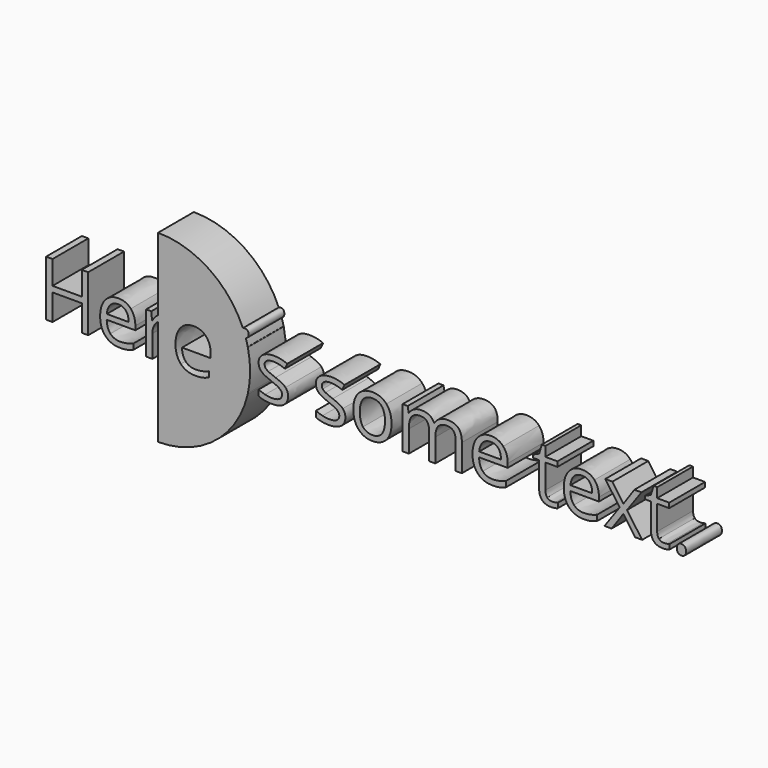
from build123d import *

# Parameters (mm, degrees)
F1_DEPTH = 25.4


with BuildPart() as f1:
    # F0 (on Front) → F1 (new body)
    with BuildSketch(Plane.XZ):
        with BuildLine():
            ThreePointArc((48.132917528, 20.2606229581), (28.8893966768, 43.5048658434), (0, 52.2232763469))
            Line((0, 52.2232763469), (0, 10.99152594))
            add(Edge.make_bspline(
                [(0, 10.99152594), (1.8226162726, 12.1922736354), (3.9958641036, 12.1922736354)],
                knots=[0.0197840857, 0.0197840857, 0.0197840857, 1, 1, 1], degree=2))
            add(Edge.make_bspline(
                [(3.9958641036, 12.1922736354), (5.5657441913, 12.1922736354), (6.8120086469, 11.9306269541)],
                knots=[0, 0, 0, 1, 1, 1], degree=2))
            Line((6.8120086469, 11.9306269541), (6.3162570403, 8.6187308041))
            add(Edge.make_bspline(
                [(6.3162570403, 8.6187308041), (4.8565439762, 8.9423464362), (3.7342174223, 8.9423464362)],
                knots=[0, 0, 0, 1, 1, 1], degree=2))
            add(Edge.make_bspline(
                [(3.7342174223, 8.9423464362), (1.645623263, 8.9423464362), (0, 7.7067871181)],
                knots=[0, 0, 0, 0.7291705076, 0.7291705076, 0.7291705076], degree=2))
            Line((0, 7.7067871181), (0, -52.2232763469))
            ThreePointArc((0, -52.2232763469), (32.4790347036, -40.8947783602), (50.8670852718, -11.8241375312))
            Line((50.8670852718, -11.8241375312), (47.4016714413, -11.8241375312))
            Line((47.4016714413, -11.8241375312), (47.4016714413, 11.7584909795))
            Line((47.4016714413, 11.7584909795), (50.882300285, 11.7584909795))
            ThreePointArc((50.882300285, 11.7584909795), (50.3659143724, 13.8038133079), (49.7673480518, 15.8266124075))
            add(Edge.make_bspline(
                [(49.7673480518, 15.8266124075), (49.5035205982, 15.7589310277), (49.2125418934, 15.7589310277)],
                knots=[0.6619199379, 0.6619199379, 0.6619199379, 1, 1, 1], degree=2))
            add(Edge.make_bspline(
                [(49.2125418934, 15.7589310277), (48.3036639479, 15.7589310277), (47.701188037, 16.35107878)],
                knots=[0, 0, 0, 1, 1, 1], degree=2))
            add(Edge.make_bspline(
                [(47.701188037, 16.35107878), (47.0987121262, 16.9432265324), (47.0987121262, 18.1481783541)],
                knots=[0, 0, 0, 1, 1, 1], degree=2))
            add(Edge.make_bspline(
                [(47.0987121262, 18.1481783541), (47.0987121262, 19.3737864928), (47.701188037, 19.9452779282)],
                knots=[0, 0, 0, 1, 1, 1], degree=2))
            add(Edge.make_bspline(
                [(47.701188037, 19.9452779282), (47.9003168312, 20.134165813), (48.132917528, 20.2606229581)],
                knots=[0, 0, 0, 0.3305174375, 0.3305174375, 0.3305174375], degree=2))
        make_face()
        with BuildLine():
            add(Edge.make_bspline(
                [(25.2649851166, -11.89987736), (23.5780525662, -12.257920187), (21.1888052397, -12.257920187)],
                knots=[0, 0, 0, 1, 1, 1], degree=2))
            add(Edge.make_bspline(
                [(21.1888052397, -12.257920187), (15.962757053, -12.257920187), (12.9366066207, -9.0699619387)],
                knots=[0, 0, 0, 1, 1, 1], degree=2))
            add(Edge.make_bspline(
                [(12.9366066207, -9.0699619387), (9.9104561885, -5.8820036904), (9.9104561885, -0.2290582868)],
                knots=[0, 0, 0, 1, 1, 1], degree=2))
            add(Edge.make_bspline(
                [(9.9104561885, -0.2290582868), (9.9104561885, 5.4789706287), (12.7197152928, 8.835622132)],
                knots=[0, 0, 0, 1, 1, 1], degree=2))
            add(Edge.make_bspline(
                [(12.7197152928, 8.835622132), (15.5289743972, 12.1922736354), (20.2661564163, 12.1922736354)],
                knots=[0, 0, 0, 1, 1, 1], degree=2))
            add(Edge.make_bspline(
                [(20.2661564163, 12.1922736354), (24.6934936812, 12.1922736354), (27.2755332992, 9.2762902268)],
                knots=[0, 0, 0, 1, 1, 1], degree=2))
            add(Edge.make_bspline(
                [(27.2755332992, 9.2762902268), (29.8575729171, 6.3603068183), (29.8575729171, 1.5818121653)],
                knots=[0, 0, 0, 1, 1, 1], degree=2))
            Line((29.8575729171, 1.5818121653), (29.8575729171, -0.6766118206))
            Line((29.8575729171, -0.6766118206), (13.6148223604, -0.6766118206))
            add(Edge.make_bspline(
                [(13.6148223604, -0.6766118206), (13.7249893841, -4.8285315263), (15.7148812497, -6.9802312079)],
                knots=[0, 0, 0, 1, 1, 1], degree=2))
            add(Edge.make_bspline(
                [(15.7148812497, -6.9802312079), (17.7047731152, -9.1319308896), (21.3196285804, -9.1319308896)],
                knots=[0, 0, 0, 1, 1, 1], degree=2))
            add(Edge.make_bspline(
                [(21.3196285804, -9.1319308896), (25.127276337, -9.1319308896), (28.8454133869, -7.5413944849)],
                knots=[0, 0, 0, 1, 1, 1], degree=2))
            Line((28.8454133869, -7.5413944849), (28.8454133869, -10.7293527332))
            add(Edge.make_bspline(
                [(28.8454133869, -10.7293527332), (26.951917667, -11.541834533), (25.2649851166, -11.89987736)],
                knots=[0, 0, 0, 1, 1, 1], degree=2))
        make_face(mode=Mode.SUBTRACT)
        with BuildLine():
            add(Edge.make_bspline(
                [(48.132917528, 20.2606229581), (48.6040639574, 20.5167693637), (49.2125418934, 20.5167693637)],
                knots=[0.3305174375, 0.3305174375, 0.3305174375, 1, 1, 1], degree=2))
            ThreePointArc((48.132917528, 20.2606229581), (49.0003123719, 18.0621144905), (49.7673480518, 15.8266124075))
            add(Edge.make_bspline(
                [(50.6963539939, 16.35107878), (50.2838903483, 15.9591243766), (49.7673480518, 15.8266124075)],
                knots=[0, 0, 0, 0.6619199379, 0.6619199379, 0.6619199379], degree=2))
            add(Edge.make_bspline(
                [(51.3194862217, 18.1481783541), (51.3194862217, 16.9432265324), (50.6963539939, 16.35107878)],
                knots=[0, 0, 0, 1, 1, 1], degree=2))
            add(Edge.make_bspline(
                [(50.6963539939, 19.9349497698), (51.3194862217, 19.3531301759), (51.3194862217, 18.1481783541)],
                knots=[0, 0, 0, 1, 1, 1], degree=2))
            add(Edge.make_bspline(
                [(49.2125418934, 20.5167693637), (50.0732217661, 20.5167693637), (50.6963539939, 19.9349497698)],
                knots=[0, 0, 0, 1, 1, 1], degree=2))
        make_face()
        with BuildLine():
            ThreePointArc((49.7673480518, 15.8266124075), (49.0003123719, 18.0621144905), (48.132917528, 20.2606229581))
            add(Edge.make_bspline(
                [(47.701188037, 19.9452779282), (47.9003168312, 20.134165813), (48.132917528, 20.2606229581)],
                knots=[0, 0, 0, 0.3305174375, 0.3305174375, 0.3305174375], degree=2))
            add(Edge.make_bspline(
                [(47.0987121262, 18.1481783541), (47.0987121262, 19.3737864928), (47.701188037, 19.9452779282)],
                knots=[0, 0, 0, 1, 1, 1], degree=2))
            add(Edge.make_bspline(
                [(47.701188037, 16.35107878), (47.0987121262, 16.9432265324), (47.0987121262, 18.1481783541)],
                knots=[0, 0, 0, 1, 1, 1], degree=2))
            add(Edge.make_bspline(
                [(49.2125418934, 15.7589310277), (48.3036639479, 15.7589310277), (47.701188037, 16.35107878)],
                knots=[0, 0, 0, 1, 1, 1], degree=2))
            add(Edge.make_bspline(
                [(49.7673480518, 15.8266124075), (49.5035205982, 15.7589310277), (49.2125418934, 15.7589310277)],
                knots=[0.6619199379, 0.6619199379, 0.6619199379, 1, 1, 1], degree=2))
        make_face()
        with BuildLine():
            add(Edge.make_bspline(
                [(0, 10.99152594), (1.8226162726, 12.1922736354), (3.9958641036, 12.1922736354)],
                knots=[0.0197840857, 0.0197840857, 0.0197840857, 1, 1, 1], degree=2))
            Line((0, 10.99152594), (0, 7.7067871181))
            add(Edge.make_bspline(
                [(3.7342174223, 8.9423464362), (1.645623263, 8.9423464362), (0, 7.7067871181)],
                knots=[0, 0, 0, 0.7291705076, 0.7291705076, 0.7291705076], degree=2))
            add(Edge.make_bspline(
                [(6.3162570403, 8.6187308041), (4.8565439762, 8.9423464362), (3.7342174223, 8.9423464362)],
                knots=[0, 0, 0, 1, 1, 1], degree=2))
            Line((6.3162570403, 8.6187308041), (6.8120086469, 11.9306269541))
            add(Edge.make_bspline(
                [(3.9958641036, 12.1922736354), (5.5657441913, 12.1922736354), (6.8120086469, 11.9306269541)],
                knots=[0, 0, 0, 1, 1, 1], degree=2))
        make_face()
        with BuildLine():
            Line((0, 7.7067871181), (0, 10.99152594))
            add(Edge.make_bspline(
                [(-0.0734303343, 10.9425664603), (-0.0367865855, 10.9672907741), (0, 10.99152594)],
                knots=[0, 0, 0, 0.0197840857, 0.0197840857, 0.0197840857], degree=2))
            add(Edge.make_bspline(
                [(-3.2338468267, 7.3931226654), (-1.9256134203, 9.6928592852), (-0.0734303343, 10.9425664603)],
                knots=[0, 0, 0, 1, 1, 1], degree=2))
            Line((-3.2338468267, 7.3931226654), (-3.4059828013, 7.3931226654))
            Line((-3.4059828013, 7.3931226654), (-3.8191091401, 11.7584909795))
            Line((-3.8191091401, 11.7584909795), (-6.7660770241, 11.7584909795))
            Line((-6.7660770241, 11.7584909795), (-6.7660770241, -11.8241375312))
            Line((-6.7660770241, -11.8241375312), (-3.1925341929, -11.8241375312))
            Line((-3.1925341929, -11.8241375312), (-3.1925341929, 0.8312993163))
            add(Edge.make_bspline(
                [(-1.1613296934, 6.61851078), (-3.1925341929, 4.2946751239), (-3.1925341929, 0.8312993163)],
                knots=[0, 0, 0, 1, 1, 1], degree=2))
            add(Edge.make_bspline(
                [(0, 7.7067871181), (-0.6112196097, 7.2478740113), (-1.1613296934, 6.61851078)],
                knots=[0.7291705076, 0.7291705076, 0.7291705076, 1, 1, 1], degree=2))
        make_face()
        with BuildLine():
            Line((50.9752142726, 11.7584909795), (50.882300285, 11.7584909795))
            ThreePointArc((50.882300285, 11.7584909795), (50.9291689881, 11.5538019104), (50.9752142726, 11.3489260403))
            Line((50.9752142726, 11.3489260403), (50.9752142726, 11.7584909795))
        make_face()
        with BuildLine():
            ThreePointArc((50.9752142726, 11.3489260403), (50.9291689881, 11.5538019104), (50.882300285, 11.7584909795))
            Line((50.882300285, 11.7584909795), (47.4016714413, 11.7584909795))
            Line((47.4016714413, 11.7584909795), (47.4016714413, -11.8241375312))
            Line((47.4016714413, -11.8241375312), (50.8670852718, -11.8241375312))
            ThreePointArc((50.8670852718, -11.8241375312), (50.9217041213, -11.5866579216), (50.9752142726, -11.3489260403))
            Line((50.9752142726, -11.3489260403), (50.9752142726, 11.3489260403))
        make_face()
        with BuildLine():
            ThreePointArc((50.9752142726, -11.3489260403), (52.2232763469, 0), (50.9752142726, 11.3489260403))
            Line((50.9752142726, 11.3489260403), (50.9752142726, -11.3489260403))
        make_face()
        with BuildLine():
            ThreePointArc((50.9752142726, -11.3489260403), (50.9217041213, -11.5866579216), (50.8670852718, -11.8241375312))
            Line((50.8670852718, -11.8241375312), (50.9752142726, -11.8241375312))
            Line((50.9752142726, -11.8241375312), (50.9752142726, -11.3489260403))
        make_face()
        Polygon((-43.2382473078, -11.8241375312), (-39.5820792087, -11.8241375312), (-39.5820792087, 19.6354331741), (-43.2382473078, 19.6354331741), (-43.2382473078, 6.2501397946), (-59.8114989356, 6.2501397946), (-59.8114989356, 19.6354331741), (-63.4676670347, 19.6354331741), (-63.4676670347, -11.8241375312), (-59.8114989356, -11.8241375312), (-59.8114989356, 2.9795562785), (-43.2382473078, 2.9795562785), align=None)
        with BuildLine():
            add(Edge.make_bspline(
                [(-21.5284581999, -12.257920187), (-26.7545063867, -12.257920187), (-29.7806568189, -9.0699619387)],
                knots=[0, 0, 0, 1, 1, 1], degree=2))
            add(Edge.make_bspline(
                [(-17.452278323, -11.89987736), (-19.1392108734, -12.257920187), (-21.5284581999, -12.257920187)],
                knots=[0, 0, 0, 1, 1, 1], degree=2))
            add(Edge.make_bspline(
                [(-13.8718500528, -10.7293527332), (-15.7653457726, -11.541834533), (-17.452278323, -11.89987736)],
                knots=[0, 0, 0, 1, 1, 1], degree=2))
            Line((-13.8718500528, -10.7293527332), (-13.8718500528, -7.5413944849))
            add(Edge.make_bspline(
                [(-21.3976348593, -9.1319308896), (-17.5899871026, -9.1319308896), (-13.8718500528, -7.5413944849)],
                knots=[0, 0, 0, 1, 1, 1], degree=2))
            add(Edge.make_bspline(
                [(-27.00238219, -6.9802312079), (-25.0124903244, -9.1319308896), (-21.3976348593, -9.1319308896)],
                knots=[0, 0, 0, 1, 1, 1], degree=2))
            add(Edge.make_bspline(
                [(-29.1024410793, -0.6766118206), (-28.9922740556, -4.8285315263), (-27.00238219, -6.9802312079)],
                knots=[0, 0, 0, 1, 1, 1], degree=2))
            Line((-29.1024410793, -0.6766118206), (-12.8596905225, -0.6766118206))
            Line((-12.8596905225, -0.6766118206), (-12.8596905225, 1.5818121653))
            add(Edge.make_bspline(
                [(-15.4417301405, 9.2762902268), (-12.8596905225, 6.3603068183), (-12.8596905225, 1.5818121653)],
                knots=[0, 0, 0, 1, 1, 1], degree=2))
            add(Edge.make_bspline(
                [(-22.4511070234, 12.1922736354), (-18.0237697585, 12.1922736354), (-15.4417301405, 9.2762902268)],
                knots=[0, 0, 0, 1, 1, 1], degree=2))
            add(Edge.make_bspline(
                [(-29.9975481468, 8.835622132), (-27.1882890425, 12.1922736354), (-22.4511070234, 12.1922736354)],
                knots=[0, 0, 0, 1, 1, 1], degree=2))
            add(Edge.make_bspline(
                [(-32.8068072512, -0.2290582868), (-32.8068072512, 5.4789706287), (-29.9975481468, 8.835622132)],
                knots=[0, 0, 0, 1, 1, 1], degree=2))
            add(Edge.make_bspline(
                [(-29.7806568189, -9.0699619387), (-32.8068072512, -5.8820036904), (-32.8068072512, -0.2290582868)],
                knots=[0, 0, 0, 1, 1, 1], degree=2))
        make_face()
        with BuildLine():
            add(Edge.make_bspline(
                [(-22.4993050963, 9.1971076785), (-25.3361059565, 9.1971076785), (-27.0264812264, 7.3483673121)],
                knots=[0, 0, 0, 1, 1, 1], degree=2))
            add(Edge.make_bspline(
                [(-18.1924630135, 7.4000081044), (-19.6969314309, 9.1971076785), (-22.4993050963, 9.1971076785)],
                knots=[0, 0, 0, 1, 1, 1], degree=2))
            add(Edge.make_bspline(
                [(-16.6879945961, 2.2290434295), (-16.6879945961, 5.6029085303), (-18.1924630135, 7.4000081044)],
                knots=[0, 0, 0, 1, 1, 1], degree=2))
            Line((-16.6879945961, 2.2290434295), (-29.0198158115, 2.2290434295))
            add(Edge.make_bspline(
                [(-27.0264812264, 7.3483673121), (-28.7168564963, 5.4996269456), (-29.0198158115, 2.2290434295)],
                knots=[0, 0, 0, 1, 1, 1], degree=2))
        make_face(mode=Mode.SUBTRACT)
        with BuildLine():
            add(Edge.make_bspline(
                [(73.7591318616, -5.3931375227), (73.7591318616, -8.6843773558), (71.3079155842, -10.4711487714)],
                knots=[0, 0, 0, 1, 1, 1], degree=2))
            add(Edge.make_bspline(
                [(72.2856479196, -1.4959790594), (73.7591318616, -3.0452028301), (73.7591318616, -5.3931375227)],
                knots=[0, 0, 0, 1, 1, 1], degree=2))
            add(Edge.make_bspline(
                [(66.618931638, 1.5818121653), (70.8121639776, 0.0532447114), (72.2856479196, -1.4959790594)],
                knots=[0, 0, 0, 1, 1, 1], degree=2))
            add(Edge.make_bspline(
                [(62.4876682493, 3.327270947), (63.5617967303, 2.7247950362), (66.618931638, 1.5818121653)],
                knots=[0, 0, 0, 1, 1, 1], degree=2))
            add(Edge.make_bspline(
                [(60.92811632, 4.5941917196), (61.4135397682, 3.9297468579), (62.4876682493, 3.327270947)],
                knots=[0, 0, 0, 1, 1, 1], degree=2))
            add(Edge.make_bspline(
                [(60.4426928718, 6.2088271607), (60.4426928718, 5.2586365813), (60.92811632, 4.5941917196)],
                knots=[0, 0, 0, 1, 1, 1], degree=2))
            add(Edge.make_bspline(
                [(61.7337126808, 8.4018394762), (60.4426928718, 7.6065712739), (60.4426928718, 6.2088271607)],
                knots=[0, 0, 0, 1, 1, 1], degree=2))
            add(Edge.make_bspline(
                [(65.5654594739, 9.1971076785), (63.0247324898, 9.1971076785), (61.7337126808, 8.4018394762)],
                knots=[0, 0, 0, 1, 1, 1], degree=2))
            add(Edge.make_bspline(
                [(71.9964594824, 7.7373946145), (68.450458407, 9.1971076785), (65.5654594739, 9.1971076785)],
                knots=[0, 0, 0, 1, 1, 1], degree=2))
            Line((71.9964594824, 7.7373946145), (73.2702656939, 10.6430498646))
            add(Edge.make_bspline(
                [(65.8202207162, 12.1922736354), (69.6278684728, 12.1922736354), (73.2702656939, 10.6430498646)],
                knots=[0, 0, 0, 1, 1, 1], degree=2))
            add(Edge.make_bspline(
                [(59.3892207077, 10.5225546824), (61.7371554003, 12.1922736354), (65.8202207162, 12.1922736354)],
                knots=[0, 0, 0, 1, 1, 1], degree=2))
            add(Edge.make_bspline(
                [(57.0412860151, 5.9678367963), (57.0412860151, 8.8528357295), (59.3892207077, 10.5225546824)],
                knots=[0, 0, 0, 1, 1, 1], degree=2))
            add(Edge.make_bspline(
                [(57.7195017547, 3.1964476064), (57.0412860151, 4.3566440747), (57.0412860151, 5.9678367963)],
                knots=[0, 0, 0, 1, 1, 1], degree=2))
            add(Edge.make_bspline(
                [(59.7851334491, 1.1204877535), (58.3977174944, 2.036251138), (57.7195017547, 3.1964476064)],
                knots=[0, 0, 0, 1, 1, 1], degree=2))
            add(Edge.make_bspline(
                [(64.4637892369, -1.0208837696), (61.1725494038, 0.204724369), (59.7851334491, 1.1204877535)],
                knots=[0, 0, 0, 1, 1, 1], degree=2))
            add(Edge.make_bspline(
                [(69.1252314272, -3.3343912673), (67.9340504834, -2.356658932), (64.4637892369, -1.0208837696)],
                knots=[0, 0, 0, 1, 1, 1], degree=2))
            add(Edge.make_bspline(
                [(70.3164123709, -5.6892113989), (70.3164123709, -4.3121236027), (69.1252314272, -3.3343912673)],
                knots=[0, 0, 0, 1, 1, 1], degree=2))
            add(Edge.make_bspline(
                [(68.8119439535, -8.412402516), (70.3164123709, -7.5207381679), (70.3164123709, -5.6892113989)],
                knots=[0, 0, 0, 1, 1, 1], degree=2))
            add(Edge.make_bspline(
                [(64.5119873097, -9.3040668641), (67.3074755361, -9.3040668641), (68.8119439535, -8.412402516)],
                knots=[0, 0, 0, 1, 1, 1], degree=2))
            add(Edge.make_bspline(
                [(60.7559803455, -8.8117579769), (62.7011168577, -9.3040668641), (64.5119873097, -9.3040668641)],
                knots=[0, 0, 0, 1, 1, 1], degree=2))
            add(Edge.make_bspline(
                [(57.1101404049, -7.4587692171), (58.8108438333, -8.3194490898), (60.7559803455, -8.8117579769)],
                knots=[0, 0, 0, 1, 1, 1], degree=2))
            Line((57.1101404049, -7.4587692171), (57.1101404049, -10.7706653671))
            add(Edge.make_bspline(
                [(64.422476603, -12.257920187), (59.7334926568, -12.257920187), (57.1101404049, -10.7706653671)],
                knots=[0, 0, 0, 1, 1, 1], degree=2))
            add(Edge.make_bspline(
                [(71.3079155842, -10.4711487714), (68.8566993069, -12.257920187), (64.422476603, -12.257920187)],
                knots=[0, 0, 0, 1, 1, 1], degree=2))
        make_face()
        with BuildLine():
            add(Edge.make_bspline(
                [(106.2308620971, -5.3931375227), (106.2308620971, -8.6843773558), (103.7796458198, -10.4711487714)],
                knots=[0, 0, 0, 1, 1, 1], degree=2))
            add(Edge.make_bspline(
                [(104.7573781551, -1.4959790594), (106.2308620971, -3.0452028301), (106.2308620971, -5.3931375227)],
                knots=[0, 0, 0, 1, 1, 1], degree=2))
            add(Edge.make_bspline(
                [(99.0906618736, 1.5818121653), (103.2838942131, 0.0532447114), (104.7573781551, -1.4959790594)],
                knots=[0, 0, 0, 1, 1, 1], degree=2))
            add(Edge.make_bspline(
                [(94.9593984848, 3.327270947), (96.0335269659, 2.7247950362), (99.0906618736, 1.5818121653)],
                knots=[0, 0, 0, 1, 1, 1], degree=2))
            add(Edge.make_bspline(
                [(93.3998465556, 4.5941917196), (93.8852700037, 3.9297468579), (94.9593984848, 3.327270947)],
                knots=[0, 0, 0, 1, 1, 1], degree=2))
            add(Edge.make_bspline(
                [(92.9144231074, 6.2088271607), (92.9144231074, 5.2586365813), (93.3998465556, 4.5941917196)],
                knots=[0, 0, 0, 1, 1, 1], degree=2))
            add(Edge.make_bspline(
                [(94.2054429164, 8.4018394762), (92.9144231074, 7.6065712739), (92.9144231074, 6.2088271607)],
                knots=[0, 0, 0, 1, 1, 1], degree=2))
            add(Edge.make_bspline(
                [(98.0371897094, 9.1971076785), (95.4964627254, 9.1971076785), (94.2054429164, 8.4018394762)],
                knots=[0, 0, 0, 1, 1, 1], degree=2))
            add(Edge.make_bspline(
                [(104.4681897179, 7.7373946145), (100.9221886426, 9.1971076785), (98.0371897094, 9.1971076785)],
                knots=[0, 0, 0, 1, 1, 1], degree=2))
            Line((104.4681897179, 7.7373946145), (105.7419959294, 10.6430498646))
            add(Edge.make_bspline(
                [(98.2919509517, 12.1922736354), (102.0995987084, 12.1922736354), (105.7419959294, 10.6430498646)],
                knots=[0, 0, 0, 1, 1, 1], degree=2))
            add(Edge.make_bspline(
                [(91.8609509433, 10.5225546824), (94.2088856359, 12.1922736354), (98.2919509517, 12.1922736354)],
                knots=[0, 0, 0, 1, 1, 1], degree=2))
            add(Edge.make_bspline(
                [(89.5130162506, 5.9678367963), (89.5130162506, 8.8528357295), (91.8609509433, 10.5225546824)],
                knots=[0, 0, 0, 1, 1, 1], degree=2))
            add(Edge.make_bspline(
                [(90.1912319903, 3.1964476064), (89.5130162506, 4.3566440747), (89.5130162506, 5.9678367963)],
                knots=[0, 0, 0, 1, 1, 1], degree=2))
            add(Edge.make_bspline(
                [(92.2568636847, 1.1204877535), (90.86944773, 2.036251138), (90.1912319903, 3.1964476064)],
                knots=[0, 0, 0, 1, 1, 1], degree=2))
            add(Edge.make_bspline(
                [(96.9355194724, -1.0208837696), (93.6442796394, 0.204724369), (92.2568636847, 1.1204877535)],
                knots=[0, 0, 0, 1, 1, 1], degree=2))
            add(Edge.make_bspline(
                [(101.5969616627, -3.3343912673), (100.405780719, -2.356658932), (96.9355194724, -1.0208837696)],
                knots=[0, 0, 0, 1, 1, 1], degree=2))
            add(Edge.make_bspline(
                [(102.7881426065, -5.6892113989), (102.7881426065, -4.3121236027), (101.5969616627, -3.3343912673)],
                knots=[0, 0, 0, 1, 1, 1], degree=2))
            add(Edge.make_bspline(
                [(101.2836741891, -8.412402516), (102.7881426065, -7.5207381679), (102.7881426065, -5.6892113989)],
                knots=[0, 0, 0, 1, 1, 1], degree=2))
            add(Edge.make_bspline(
                [(96.9837175453, -9.3040668641), (99.7792057717, -9.3040668641), (101.2836741891, -8.412402516)],
                knots=[0, 0, 0, 1, 1, 1], degree=2))
            add(Edge.make_bspline(
                [(93.227710581, -8.8117579769), (95.1728470932, -9.3040668641), (96.9837175453, -9.3040668641)],
                knots=[0, 0, 0, 1, 1, 1], degree=2))
            add(Edge.make_bspline(
                [(89.5818706405, -7.4587692171), (91.2825740688, -8.3194490898), (93.227710581, -8.8117579769)],
                knots=[0, 0, 0, 1, 1, 1], degree=2))
            Line((89.5818706405, -7.4587692171), (89.5818706405, -10.7706653671))
            add(Edge.make_bspline(
                [(96.8942068385, -12.257920187), (92.2052228923, -12.257920187), (89.5818706405, -10.7706653671)],
                knots=[0, 0, 0, 1, 1, 1], degree=2))
            add(Edge.make_bspline(
                [(103.7796458198, -10.4711487714), (101.3284295425, -12.257920187), (96.8942068385, -12.257920187)],
                knots=[0, 0, 0, 1, 1, 1], degree=2))
        make_face()
        with BuildLine():
            add(Edge.make_bspline(
                [(132.3955302258, -0.0087242394), (132.3955302258, -5.7787221057), (129.4933176953, -9.0183211464)],
                knots=[0, 0, 0, 1, 1, 1], degree=2))
            add(Edge.make_bspline(
                [(129.4795468173, 8.8975910828), (132.3955302258, 5.6029085303), (132.3955302258, -0.0087242394)],
                knots=[0, 0, 0, 1, 1, 1], degree=2))
            add(Edge.make_bspline(
                [(121.6198182202, 12.1922736354), (126.5635634087, 12.1922736354), (129.4795468173, 8.8975910828)],
                knots=[0, 0, 0, 1, 1, 1], degree=2))
            add(Edge.make_bspline(
                [(113.612052685, 8.9733309116), (116.4970516182, 12.1922736354), (121.6198182202, 12.1922736354)],
                knots=[0, 0, 0, 1, 1, 1], degree=2))
            add(Edge.make_bspline(
                [(110.7270537519, -0.0087242394), (110.7270537519, 5.7543881879), (113.612052685, 8.9733309116)],
                knots=[0, 0, 0, 1, 1, 1], degree=2))
            add(Edge.make_bspline(
                [(112.0628289142, -6.5085786377), (110.7270537519, -3.7337467283), (110.7270537519, -0.0087242394)],
                knots=[0, 0, 0, 1, 1, 1], degree=2))
            add(Edge.make_bspline(
                [(115.8498203539, -10.7706653671), (113.3986040766, -9.2834105471), (112.0628289142, -6.5085786377)],
                knots=[0, 0, 0, 1, 1, 1], degree=2))
            add(Edge.make_bspline(
                [(121.4683385626, -12.257920187), (118.3010366312, -12.257920187), (115.8498203539, -10.7706653671)],
                knots=[0, 0, 0, 1, 1, 1], degree=2))
            add(Edge.make_bspline(
                [(129.4933176953, -9.0183211464), (126.5911051647, -12.257920187), (121.4683385626, -12.257920187)],
                knots=[0, 0, 0, 1, 1, 1], degree=2))
        make_face()
        with BuildLine():
            add(Edge.make_bspline(
                [(114.4314199238, -0.0087242394), (114.4314199238, -4.5324576501), (116.2388476564, -6.8976059401)],
                knots=[0, 0, 0, 1, 1, 1], degree=2))
            add(Edge.make_bspline(
                [(116.2181913394, 6.8526157054), (114.4314199238, 4.5494363662), (114.4314199238, -0.0087242394)],
                knots=[0, 0, 0, 1, 1, 1], degree=2))
            add(Edge.make_bspline(
                [(121.5096511965, 9.1557950446), (118.004962755, 9.1557950446), (116.2181913394, 6.8526157054)],
                knots=[0, 0, 0, 1, 1, 1], degree=2))
            add(Edge.make_bspline(
                [(126.8802936019, 6.82163123), (125.0625377108, 9.1557950446), (121.5096511965, 9.1557950446)],
                knots=[0, 0, 0, 1, 1, 1], degree=2))
            add(Edge.make_bspline(
                [(128.6980494929, -0.0087242394), (128.6980494929, 4.4874674154), (126.8802936019, 6.82163123)],
                knots=[0, 0, 0, 1, 1, 1], degree=2))
            add(Edge.make_bspline(
                [(126.8802936019, -6.9079340986), (128.6980494929, -4.553113967), (128.6980494929, -0.0087242394)],
                knots=[0, 0, 0, 1, 1, 1], degree=2))
            add(Edge.make_bspline(
                [(121.5509638304, -9.2627542302), (125.0625377108, -9.2627542302), (126.8802936019, -6.9079340986)],
                knots=[0, 0, 0, 1, 1, 1], degree=2))
            add(Edge.make_bspline(
                [(116.2388476564, -6.8976059401), (118.0462753889, -9.2627542302), (121.5509638304, -9.2627542302)],
                knots=[0, 0, 0, 1, 1, 1], degree=2))
        make_face(mode=Mode.SUBTRACT)
        with BuildLine():
            Line((168.7231062909, 3.516620519), (168.7231062909, -11.8241375312))
            Line((168.7231062909, -11.8241375312), (172.2897636832, -11.8241375312))
            Line((172.2897636832, -11.8241375312), (172.2897636832, 3.5579331529))
            add(Edge.make_bspline(
                [(170.2998718176, 10.1369700995), (172.2897636832, 8.0816665636), (172.2897636832, 3.5579331529)],
                knots=[0, 0, 0, 1, 1, 1], degree=2))
            add(Edge.make_bspline(
                [(164.3095399039, 12.1922736354), (168.309979952, 12.1922736354), (170.2998718176, 10.1369700995)],
                knots=[0, 0, 0, 1, 1, 1], degree=2))
            add(Edge.make_bspline(
                [(159.7479365788, 11.1147024348), (161.7481566029, 12.1922736354), (164.3095399039, 12.1922736354)],
                knots=[0, 0, 0, 1, 1, 1], degree=2))
            add(Edge.make_bspline(
                [(156.6942443907, 8.1849481483), (157.7477165548, 10.0371312342), (159.7479365788, 11.1147024348)],
                knots=[0, 0, 0, 1, 1, 1], degree=2))
            Line((156.6942443907, 8.1849481483), (156.5221084161, 8.1849481483))
            add(Edge.make_bspline(
                [(149.2923974858, 12.1922736354), (154.8214049878, 12.1922736354), (156.5221084161, 8.1849481483)],
                knots=[0, 0, 0, 1, 1, 1], degree=2))
            add(Edge.make_bspline(
                [(145.1714622556, 11.221426739), (147.013317183, 12.1922736354), (149.2923974858, 12.1922736354)],
                knots=[0, 0, 0, 1, 1, 1], degree=2))
            add(Edge.make_bspline(
                [(142.3174477978, 8.5292200973), (143.3296073281, 10.2505798427), (145.1714622556, 11.221426739)],
                knots=[0, 0, 0, 1, 1, 1], degree=2))
            Line((142.3174477978, 8.5292200973), (142.1453118233, 8.5292200973))
            Line((142.1453118233, 8.5292200973), (141.5669349489, 11.7584909795))
            Line((141.5669349489, 11.7584909795), (138.6612796988, 11.7584909795))
            Line((138.6612796988, 11.7584909795), (138.6612796988, -11.8241375312))
            Line((138.6612796988, -11.8241375312), (142.23482253, -11.8241375312))
            Line((142.23482253, -11.8241375312), (142.23482253, 0.5489963181))
            add(Edge.make_bspline(
                [(143.7943744593, 7.1452468621), (142.23482253, 5.1346986796), (142.23482253, 0.5489963181)],
                knots=[0, 0, 0, 1, 1, 1], degree=2))
            add(Edge.make_bspline(
                [(148.7071351724, 9.1557950446), (145.3539263886, 9.1557950446), (143.7943744593, 7.1452468621)],
                knots=[0, 0, 0, 1, 1, 1], degree=2))
            add(Edge.make_bspline(
                [(152.4734702952, 7.747722773), (151.2685184734, 9.1557950446), (148.7071351724, 9.1557950446)],
                knots=[0, 0, 0, 1, 1, 1], degree=2))
            add(Edge.make_bspline(
                [(153.6784221169, 3.516620519), (153.6784221169, 6.3396505013), (152.4734702952, 7.747722773)],
                knots=[0, 0, 0, 1, 1, 1], degree=2))
            Line((153.6784221169, 3.516620519), (153.6784221169, -11.8241375312))
            Line((153.6784221169, -11.8241375312), (157.2519649481, -11.8241375312))
            Line((157.2519649481, -11.8241375312), (157.2519649481, 1.3477072399))
            add(Edge.make_bspline(
                [(158.8459440723, 7.2416430078), (157.2519649481, 5.3274909711), (157.2519649481, 1.3477072399)],
                knots=[0, 0, 0, 1, 1, 1], degree=2))
            add(Edge.make_bspline(
                [(163.7724756634, 9.1557950446), (160.4399231965, 9.1557950446), (158.8459440723, 7.2416430078)],
                knots=[0, 0, 0, 1, 1, 1], degree=2))
            add(Edge.make_bspline(
                [(167.5181544692, 7.747722773), (166.3132026475, 9.1557950446), (163.7724756634, 9.1557950446)],
                knots=[0, 0, 0, 1, 1, 1], degree=2))
            add(Edge.make_bspline(
                [(168.7231062909, 3.516620519), (168.7231062909, 6.3396505013), (167.5181544692, 7.747722773)],
                knots=[0, 0, 0, 1, 1, 1], degree=2))
        make_face()
        with BuildLine():
            add(Edge.make_bspline(
                [(189.61352816, -12.257920187), (184.3874799732, -12.257920187), (181.361329541, -9.0699619387)],
                knots=[0, 0, 0, 1, 1, 1], degree=2))
            add(Edge.make_bspline(
                [(193.6897080369, -11.89987736), (192.0027754865, -12.257920187), (189.61352816, -12.257920187)],
                knots=[0, 0, 0, 1, 1, 1], degree=2))
            add(Edge.make_bspline(
                [(197.2701363071, -10.7293527332), (195.3766405873, -11.541834533), (193.6897080369, -11.89987736)],
                knots=[0, 0, 0, 1, 1, 1], degree=2))
            Line((197.2701363071, -10.7293527332), (197.2701363071, -7.5413944849))
            add(Edge.make_bspline(
                [(189.7443515006, -9.1319308896), (193.5519992573, -9.1319308896), (197.2701363071, -7.5413944849)],
                knots=[0, 0, 0, 1, 1, 1], degree=2))
            add(Edge.make_bspline(
                [(184.1396041699, -6.9802312079), (186.1294960355, -9.1319308896), (189.7443515006, -9.1319308896)],
                knots=[0, 0, 0, 1, 1, 1], degree=2))
            add(Edge.make_bspline(
                [(182.0395452806, -0.6766118206), (182.1497123043, -4.8285315263), (184.1396041699, -6.9802312079)],
                knots=[0, 0, 0, 1, 1, 1], degree=2))
            Line((182.0395452806, -0.6766118206), (198.2822958374, -0.6766118206))
            Line((198.2822958374, -0.6766118206), (198.2822958374, 1.5818121653))
            add(Edge.make_bspline(
                [(195.7002562194, 9.2762902268), (198.2822958374, 6.3603068183), (198.2822958374, 1.5818121653)],
                knots=[0, 0, 0, 1, 1, 1], degree=2))
            add(Edge.make_bspline(
                [(188.6908793365, 12.1922736354), (193.1182166015, 12.1922736354), (195.7002562194, 9.2762902268)],
                knots=[0, 0, 0, 1, 1, 1], degree=2))
            add(Edge.make_bspline(
                [(181.1444382131, 8.835622132), (183.9536973174, 12.1922736354), (188.6908793365, 12.1922736354)],
                knots=[0, 0, 0, 1, 1, 1], degree=2))
            add(Edge.make_bspline(
                [(178.3351791087, -0.2290582868), (178.3351791087, 5.4789706287), (181.1444382131, 8.835622132)],
                knots=[0, 0, 0, 1, 1, 1], degree=2))
            add(Edge.make_bspline(
                [(181.361329541, -9.0699619387), (178.3351791087, -5.8820036904), (178.3351791087, -0.2290582868)],
                knots=[0, 0, 0, 1, 1, 1], degree=2))
        make_face()
        with BuildLine():
            add(Edge.make_bspline(
                [(188.6426812636, 9.1971076785), (185.8058804034, 9.1971076785), (184.1155051335, 7.3483673121)],
                knots=[0, 0, 0, 1, 1, 1], degree=2))
            add(Edge.make_bspline(
                [(192.9495233464, 7.4000081044), (191.445054929, 9.1971076785), (188.6426812636, 9.1971076785)],
                knots=[0, 0, 0, 1, 1, 1], degree=2))
            add(Edge.make_bspline(
                [(194.4539917638, 2.2290434295), (194.4539917638, 5.6029085303), (192.9495233464, 7.4000081044)],
                knots=[0, 0, 0, 1, 1, 1], degree=2))
            Line((194.4539917638, 2.2290434295), (182.1221705484, 2.2290434295))
            add(Edge.make_bspline(
                [(184.1155051335, 7.3483673121), (182.4251298636, 5.4996269456), (182.1221705484, 2.2290434295)],
                knots=[0, 0, 0, 1, 1, 1], degree=2))
        make_face(mode=Mode.SUBTRACT)
        with BuildLine():
            add(Edge.make_bspline(
                [(223.4416898749, -9.3040668641), (224.3918804543, -9.3040668641), (225.2732166439, -9.1663580845)],
                knots=[0, 0, 0, 1, 1, 1], degree=2))
            add(Edge.make_bspline(
                [(220.6668579654, -8.1645267127), (221.6790174957, -9.3040668641), (223.4416898749, -9.3040668641)],
                knots=[0, 0, 0, 1, 1, 1], degree=2))
            add(Edge.make_bspline(
                [(219.6546984352, -4.8973859161), (219.6546984352, -7.0249865613), (220.6668579654, -8.1645267127)],
                knots=[0, 0, 0, 1, 1, 1], degree=2))
            Line((219.6546984352, -4.8973859161), (219.6546984352, 8.9836590701))
            Line((219.6546984352, 8.9836590701), (226.4988247825, 8.9836590701))
            Line((226.4988247825, 8.9836590701), (226.4988247825, 11.7584909795))
            Line((226.4988247825, 11.7584909795), (219.6546984352, 11.7584909795))
            Line((219.6546984352, 11.7584909795), (219.6546984352, 17.2255295307))
            Line((219.6546984352, 17.2255295307), (217.5890667408, 17.2255295307))
            Line((217.5890667408, 17.2255295307), (216.0880410429, 12.1922736354))
            Line((216.0880410429, 12.1922736354), (212.7072905031, 10.7050188154))
            Line((212.7072905031, 10.7050188154), (212.7072905031, 8.9836590701))
            Line((212.7072905031, 8.9836590701), (216.0880410429, 8.9836590701))
            Line((216.0880410429, 8.9836590701), (216.0880410429, -5.0488655737))
            add(Edge.make_bspline(
                [(222.9252819513, -12.257920187), (216.0880410429, -12.257920187), (216.0880410429, -5.0488655737)],
                knots=[0, 0, 0, 1, 1, 1], degree=2))
            add(Edge.make_bspline(
                [(224.9633718897, -12.0720133345), (223.8341598968, -12.257920187), (222.9252819513, -12.257920187)],
                knots=[0, 0, 0, 1, 1, 1], degree=2))
            add(Edge.make_bspline(
                [(226.6709607571, -11.6106889228), (226.0925838826, -11.8861064821), (224.9633718897, -12.0720133345)],
                knots=[0, 0, 0, 1, 1, 1], degree=2))
            Line((226.6709607571, -11.6106889228), (226.6709607571, -8.8771696472))
            add(Edge.make_bspline(
                [(225.2732166439, -9.1663580845), (226.1545528335, -9.0286493048), (226.6709607571, -8.8771696472)],
                knots=[0, 0, 0, 1, 1, 1], degree=2))
        make_face()
        with BuildLine():
            add(Edge.make_bspline(
                [(241.3438312261, -12.257920187), (236.1177830393, -12.257920187), (233.0916326071, -9.0699619387)],
                knots=[0, 0, 0, 1, 1, 1], degree=2))
            add(Edge.make_bspline(
                [(245.420011103, -11.89987736), (243.7330785526, -12.257920187), (241.3438312261, -12.257920187)],
                knots=[0, 0, 0, 1, 1, 1], degree=2))
            add(Edge.make_bspline(
                [(249.0004393733, -10.7293527332), (247.1069436534, -11.541834533), (245.420011103, -11.89987736)],
                knots=[0, 0, 0, 1, 1, 1], degree=2))
            Line((249.0004393733, -10.7293527332), (249.0004393733, -7.5413944849))
            add(Edge.make_bspline(
                [(241.4746545667, -9.1319308896), (245.2823023234, -9.1319308896), (249.0004393733, -7.5413944849)],
                knots=[0, 0, 0, 1, 1, 1], degree=2))
            add(Edge.make_bspline(
                [(235.869907236, -6.9802312079), (237.8597991016, -9.1319308896), (241.4746545667, -9.1319308896)],
                knots=[0, 0, 0, 1, 1, 1], degree=2))
            add(Edge.make_bspline(
                [(233.7698483467, -0.6766118206), (233.8800153704, -4.8285315263), (235.869907236, -6.9802312079)],
                knots=[0, 0, 0, 1, 1, 1], degree=2))
            Line((233.7698483467, -0.6766118206), (250.0125989035, -0.6766118206))
            Line((250.0125989035, -0.6766118206), (250.0125989035, 1.5818121653))
            add(Edge.make_bspline(
                [(247.4305592855, 9.2762902268), (250.0125989035, 6.3603068183), (250.0125989035, 1.5818121653)],
                knots=[0, 0, 0, 1, 1, 1], degree=2))
            add(Edge.make_bspline(
                [(240.4211824026, 12.1922736354), (244.8485196676, 12.1922736354), (247.4305592855, 9.2762902268)],
                knots=[0, 0, 0, 1, 1, 1], degree=2))
            add(Edge.make_bspline(
                [(232.8747412792, 8.835622132), (235.6840003835, 12.1922736354), (240.4211824026, 12.1922736354)],
                knots=[0, 0, 0, 1, 1, 1], degree=2))
            add(Edge.make_bspline(
                [(230.0654821748, -0.2290582868), (230.0654821748, 5.4789706287), (232.8747412792, 8.835622132)],
                knots=[0, 0, 0, 1, 1, 1], degree=2))
            add(Edge.make_bspline(
                [(233.0916326071, -9.0699619387), (230.0654821748, -5.8820036904), (230.0654821748, -0.2290582868)],
                knots=[0, 0, 0, 1, 1, 1], degree=2))
        make_face()
        with BuildLine():
            add(Edge.make_bspline(
                [(240.3729843297, 9.1971076785), (237.5361834695, 9.1971076785), (235.8458081996, 7.3483673121)],
                knots=[0, 0, 0, 1, 1, 1], degree=2))
            add(Edge.make_bspline(
                [(244.6798264125, 7.4000081044), (243.1753579951, 9.1971076785), (240.3729843297, 9.1971076785)],
                knots=[0, 0, 0, 1, 1, 1], degree=2))
            add(Edge.make_bspline(
                [(246.1842948299, 2.2290434295), (246.1842948299, 5.6029085303), (244.6798264125, 7.4000081044)],
                knots=[0, 0, 0, 1, 1, 1], degree=2))
            Line((246.1842948299, 2.2290434295), (233.8524736145, 2.2290434295))
            add(Edge.make_bspline(
                [(235.8458081996, 7.3483673121), (234.1554329297, 5.4996269456), (233.8524736145, 2.2290434295)],
                knots=[0, 0, 0, 1, 1, 1], degree=2))
        make_face(mode=Mode.SUBTRACT)
        Polygon((253.5861417348, 11.7584909795), (261.7866995614, 0.2460370029), (253.1592445179, -11.8241375312), (257.2009971999, -11.8241375312), (263.8729875727, -2.2671482253), (270.4830089947, -11.8241375312), (274.5247616767, -11.8241375312), (265.8973066332, 0.2460370029), (274.0978644599, 11.7584909795), (270.0698826559, 11.7584909795), (263.8729875727, 2.7247950362), (257.6554361727, 11.7584909795), align=None)
        with BuildLine():
            add(Edge.make_bspline(
                [(286.8083848193, -9.3040668641), (287.7585753987, -9.3040668641), (288.6399115883, -9.1663580845)],
                knots=[0, 0, 0, 1, 1, 1], degree=2))
            add(Edge.make_bspline(
                [(284.0335529098, -8.1645267127), (285.0457124401, -9.3040668641), (286.8083848193, -9.3040668641)],
                knots=[0, 0, 0, 1, 1, 1], degree=2))
            add(Edge.make_bspline(
                [(283.0213933796, -4.8973859161), (283.0213933796, -7.0249865613), (284.0335529098, -8.1645267127)],
                knots=[0, 0, 0, 1, 1, 1], degree=2))
            Line((283.0213933796, -4.8973859161), (283.0213933796, 8.9836590701))
            Line((283.0213933796, 8.9836590701), (289.8655197269, 8.9836590701))
            Line((289.8655197269, 8.9836590701), (289.8655197269, 11.7584909795))
            Line((289.8655197269, 11.7584909795), (283.0213933796, 11.7584909795))
            Line((283.0213933796, 11.7584909795), (283.0213933796, 17.2255295307))
            Line((283.0213933796, 17.2255295307), (280.9557616852, 17.2255295307))
            Line((280.9557616852, 17.2255295307), (279.4547359873, 12.1922736354))
            Line((279.4547359873, 12.1922736354), (276.0739854475, 10.7050188154))
            Line((276.0739854475, 10.7050188154), (276.0739854475, 8.9836590701))
            Line((276.0739854475, 8.9836590701), (279.4547359873, 8.9836590701))
            Line((279.4547359873, 8.9836590701), (279.4547359873, -5.0488655737))
            add(Edge.make_bspline(
                [(286.2919768957, -12.257920187), (279.4547359873, -12.257920187), (279.4547359873, -5.0488655737)],
                knots=[0, 0, 0, 1, 1, 1], degree=2))
            add(Edge.make_bspline(
                [(288.3300668341, -12.0720133345), (287.2008548412, -12.257920187), (286.2919768957, -12.257920187)],
                knots=[0, 0, 0, 1, 1, 1], degree=2))
            add(Edge.make_bspline(
                [(290.0376557015, -11.6106889228), (289.4592788271, -11.8861064821), (288.3300668341, -12.0720133345)],
                knots=[0, 0, 0, 1, 1, 1], degree=2))
            Line((290.0376557015, -11.6106889228), (290.0376557015, -8.8771696472))
            add(Edge.make_bspline(
                [(288.6399115883, -9.1663580845), (289.5212477779, -9.0286493048), (290.0376557015, -8.8771696472)],
                knots=[0, 0, 0, 1, 1, 1], degree=2))
        make_face()
        with BuildLine():
            add(Edge.make_bspline(
                [(294.2308880411, -9.5450572284), (294.2308880411, -8.0991150424), (294.8884474638, -7.3589303519)],
                knots=[0, 0, 0, 1, 1, 1], degree=2))
            add(Edge.make_bspline(
                [(294.9504164146, -11.7724967389), (294.2308880411, -11.0942809992), (294.2308880411, -9.5450572284)],
                knots=[0, 0, 0, 1, 1, 1], degree=2))
            add(Edge.make_bspline(
                [(296.7716150251, -12.4507124785), (295.6699447881, -12.4507124785), (294.9504164146, -11.7724967389)],
                knots=[0, 0, 0, 1, 1, 1], degree=2))
            add(Edge.make_bspline(
                [(298.7064233789, -11.6967569101), (297.9972231638, -12.4507124785), (296.7716150251, -12.4507124785)],
                knots=[0, 0, 0, 1, 1, 1], degree=2))
            add(Edge.make_bspline(
                [(299.4156235939, -9.5450572284), (299.4156235939, -10.9428013416), (298.7064233789, -11.6967569101)],
                knots=[0, 0, 0, 1, 1, 1], degree=2))
            add(Edge.make_bspline(
                [(298.7167515373, -7.3589303519), (299.4156235939, -8.0991150424), (299.4156235939, -9.5450572284)],
                knots=[0, 0, 0, 1, 1, 1], degree=2))
            add(Edge.make_bspline(
                [(296.7716150251, -6.6187456614), (298.0178794807, -6.6187456614), (298.7167515373, -7.3589303519)],
                knots=[0, 0, 0, 1, 1, 1], degree=2))
            add(Edge.make_bspline(
                [(294.8884474638, -7.3589303519), (295.5460068865, -6.6187456614), (296.7716150251, -6.6187456614)],
                knots=[0, 0, 0, 1, 1, 1], degree=2))
        make_face()
    extrude(amount=F1_DEPTH)


solid = f1.part
